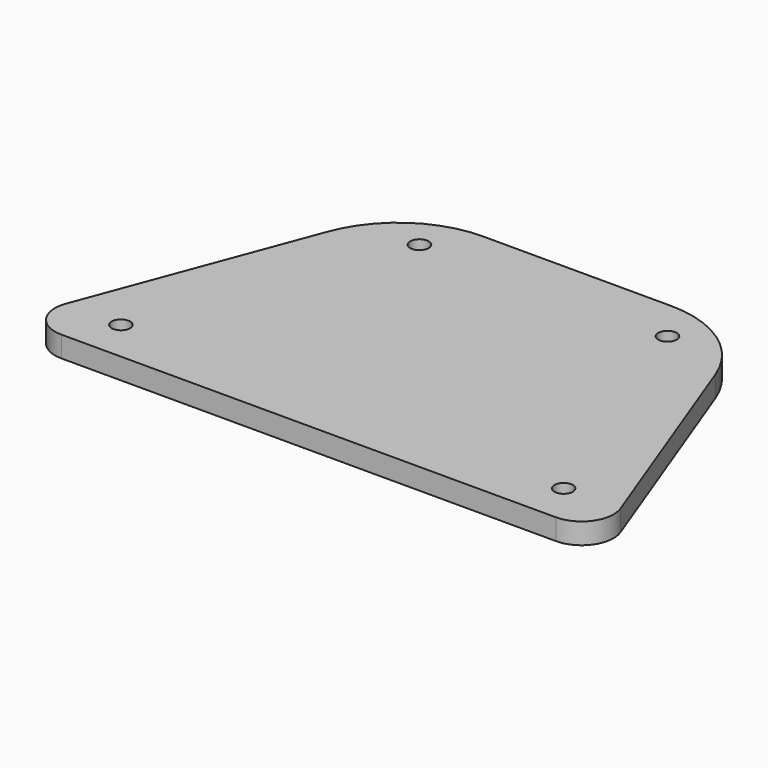
from build123d import *

# Parameters (mm, degrees)
F1_DEPTH = 5
F2_R     = 25.4
F3_R     = 7.62
F5_D     = 4.4


with BuildPart() as f1:
    # F0 (on Top) → F1 (new body)
    with BuildSketch(Plane.XY):
        Polygon((-40, 80), (-70, 0), (70, 0), (40, 80), align=None)
    extrude(amount=F1_DEPTH)

    # F2
    f2_edges = [f1.edges().sort_by_distance(p)[0] for p in [
        (-40, 80, 2.5),
        (40, 80, 2.5),
    ]]
    fillet(f2_edges, radius=F2_R)

    # F3
    f3_edges = [f1.edges().sort_by_distance(p)[0] for p in [
        (-70, 0, 2.5),
        (70, 0, 2.5),
    ]]
    fillet(f3_edges, radius=F3_R)

    # F5 (through all)
    with Locations(Plane.XY.offset(5)):
        with Locations((-29.5821707696, 70), (29.5821707696, 70), (52.8025653534, 10), (-52.8025653534, 10)):
            Hole(F5_D / 2)


solid = f1.part
